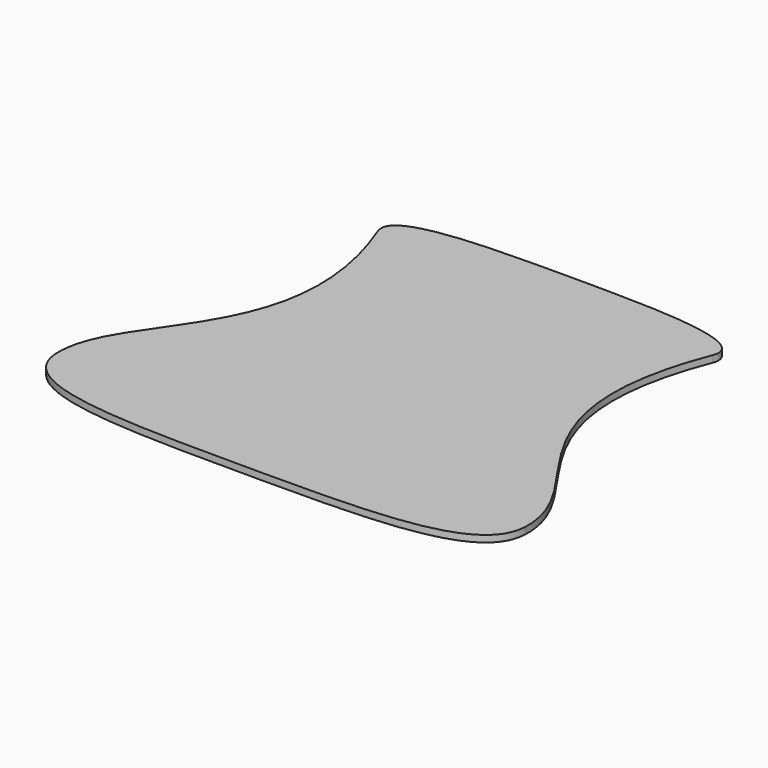
from build123d import *

# Parameters (mm, degrees)
F1_DEPTH = 5


with BuildPart() as f1:
    # F0 (on Top) → F1 (new body)
    with BuildSketch(Plane.XY):
        with BuildLine():
            add(Edge.make_bspline(
                [(-125, 0), (-135.333794, 26.47224), (-49.452938, 24.674808), (0, 25)],
                knots=[0, 0, 0, 0, 127.475488, 127.475488, 127.475488, 127.475488], degree=3))
            add(Edge.make_bspline(
                [(-125, 0), (-70.472038, -139.68512), (-176.99485, -172.72353), (-175, -236.876854)],
                knots=[0, 0, 0, 0, 242.096353, 242.096353, 242.096353, 242.096353], degree=3))
            add(Edge.make_bspline(
                [(-175, -236.876854), (-173.659084, -280), (-96.910591, -280), (0, -280)],
                knots=[0, 0, 0, 0, 180.234863, 180.234863, 180.234863, 180.234863], degree=3))
            add(Edge.make_bspline(
                [(175, -236.876854), (173.659084, -280), (96.910591, -280), (0, -280)],
                knots=[0, 0, 0, 0, 180.234863, 180.234863, 180.234863, 180.234863], degree=3))
            add(Edge.make_bspline(
                [(125, 0), (70.472038, -139.68512), (176.99485, -172.72353), (175, -236.876854)],
                knots=[0, 0, 0, 0, 242.096353, 242.096353, 242.096353, 242.096353], degree=3))
            add(Edge.make_bspline(
                [(125, 0), (135.333794, 26.47224), (49.452938, 24.674808), (0, 25)],
                knots=[0, 0, 0, 0, 127.475488, 127.475488, 127.475488, 127.475488], degree=3))
        make_face()
    extrude(amount=F1_DEPTH)


solid = f1.part
